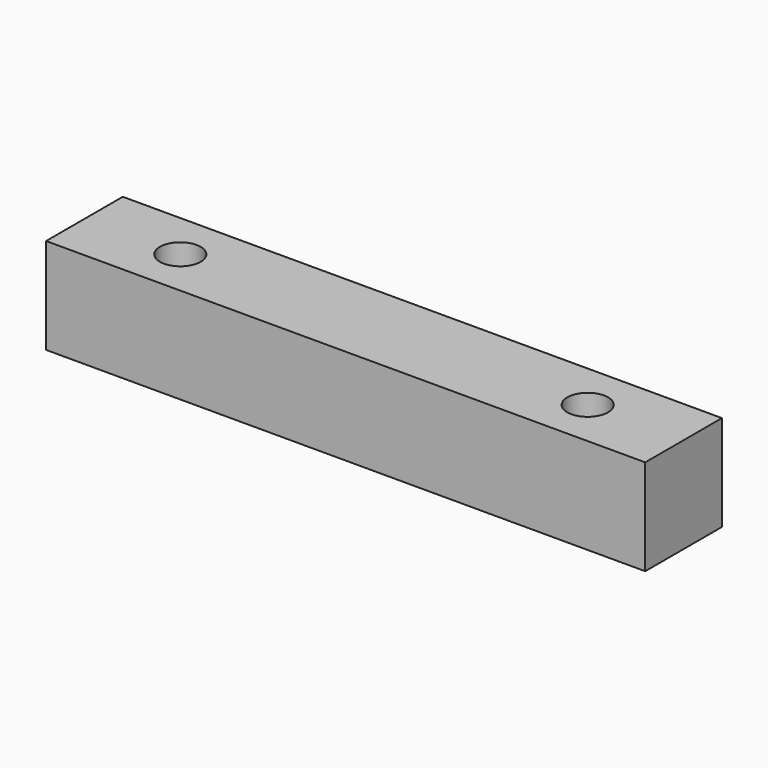
from build123d import *

# Parameters (mm, degrees)
F0_W           = 50
F0_H           = 8
F1_DEPTH       = 8
F3_D           = 3.4
F3_CBORE_D     = 6
F3_CBORE_DEPTH = 3.5


with BuildPart() as f1:
    # F0 (on Top) → F1 (new body)
    with BuildSketch(Plane.XY):
        with Locations((17, 0)):
            Rectangle(F0_W, F0_H)
    extrude(amount=F1_DEPTH)

    # F3 (through all)
    with Locations(Plane(origin=(0, 0, 0), x_dir=(1, 0, 0), z_dir=(0, 0, -1))):
        with Locations((0, 0), (34, 0)):
            CounterBoreHole(F3_D / 2, F3_CBORE_D / 2, F3_CBORE_DEPTH)


solid = f1.part
